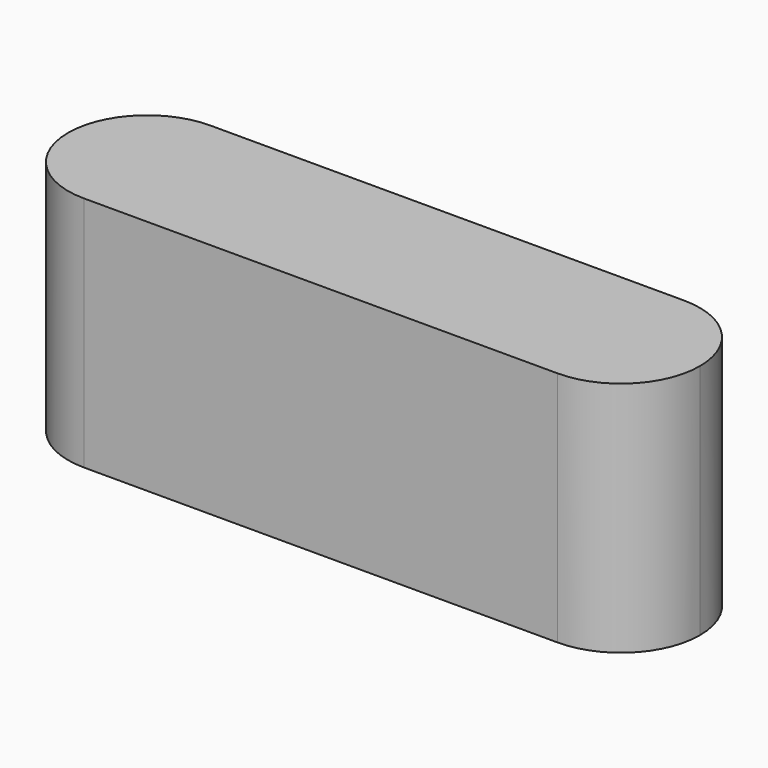
from build123d import *

# Parameters (mm, degrees)
F1_DEPTH = 15
F3_DEPTH = 10


with BuildPart() as f1:
    # F0 (on Top) → F1 (new body)
    with BuildSketch(Plane.XY):
        with BuildLine():
            ThreePointArc((15, 5), (10, 0), (15, -5))
            Line((15, -5), (15, 5))
        make_face()
        with BuildLine():
            Line((-15, -5), (15, -5))
            ThreePointArc((15, -5), (10, 0), (15, 5))
            Line((15, 5), (-15, 5))
            ThreePointArc((-15, 5), (-11.4644660941, 3.5355339059), (-10, 0))
            ThreePointArc((-10, 0), (-11.4644660941, -3.5355339059), (-15, -5))
        make_face()
        with BuildLine():
            Line((15, 5), (15, -5))
            ThreePointArc((15, -5), (18.5355339059, -3.5355339059), (20, 0))
            ThreePointArc((20, 0), (18.5355339059, 3.5355339059), (15, 5))
        make_face()
        with BuildLine():
            ThreePointArc((-15, 5), (-20, 0), (-15, -5))
            Line((-15, -5), (-15, 5))
        make_face()
        with BuildLine():
            Line((-15, 5), (-15, -5))
            ThreePointArc((-15, -5), (-11.4644660941, -3.5355339059), (-10, 0))
            ThreePointArc((-10, 0), (-11.4644660941, 3.5355339059), (-15, 5))
        make_face()
    extrude(amount=F1_DEPTH)

    # F2 (on face) → F3 (cut)
    with BuildSketch(Plane(origin=(0, 0, 0), x_dir=(1, 0, 0), z_dir=(0, 0, -1))):
        with BuildLine():
            ThreePointArc((15, 4), (11, 0), (15, -4))
            Line((15, -4), (15, 4))
        make_face()
        with BuildLine():
            Line((-15, -4), (15, -4))
            ThreePointArc((15, -4), (11, 0), (15, 4))
            Line((15, 4), (-15, 4))
            ThreePointArc((-15, 4), (-12.1715728753, 2.8284271247), (-11, 0))
            ThreePointArc((-11, 0), (-12.1715728753, -2.8284271247), (-15, -4))
        make_face()
        with BuildLine():
            Line((15, 4), (15, -4))
            ThreePointArc((15, -4), (17.8284271247, -2.8284271247), (19, 0))
            ThreePointArc((19, 0), (17.8284271247, 2.8284271247), (15, 4))
        make_face()
        with BuildLine():
            ThreePointArc((-15, 4), (-19, 0), (-15, -4))
            Line((-15, -4), (-15, 4))
        make_face()
        with BuildLine():
            Line((-15, 4), (-15, -4))
            ThreePointArc((-15, -4), (-12.1715728753, -2.8284271247), (-11, 0))
            ThreePointArc((-11, 0), (-12.1715728753, 2.8284271247), (-15, 4))
        make_face()
    extrude(amount=-F3_DEPTH, mode=Mode.SUBTRACT)


solid = f1.part
